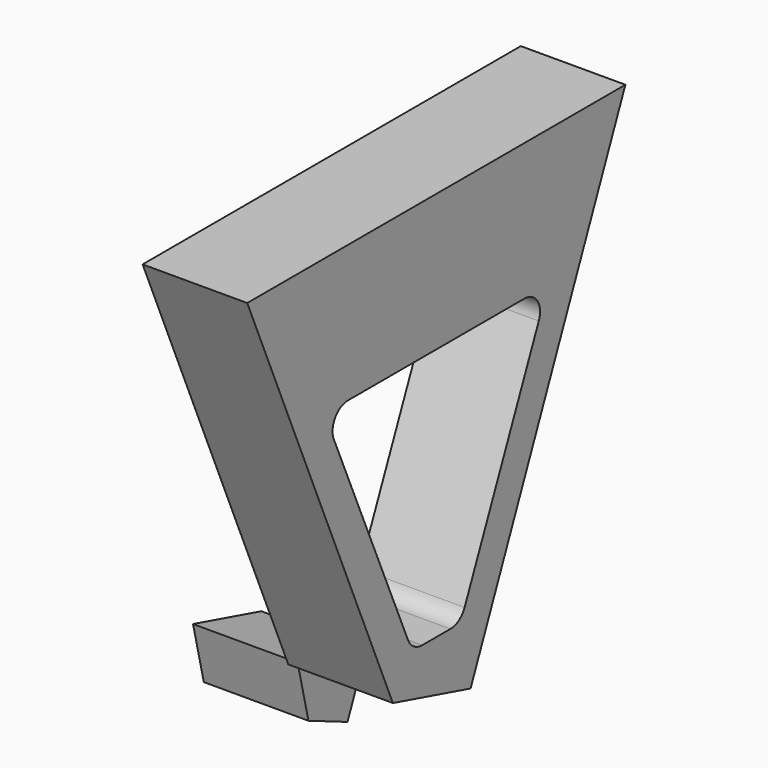
from build123d import *

# Parameters (mm, degrees)
F1_DEPTH = 27
F3_DEPTH = 30
F4_R     = 5
F6_DEPTH = 27


with BuildPart() as f1:
    # F0 (on Right) → F1 (new body)
    with BuildSketch(Plane.YZ):
        Polygon((0, -65.738282), (0, 44.261718), (-61, 44.261718), (-14, -65.738282), align=None)
        Polygon((61, 44.261718), (0, 44.261718), (0, -65.738282), (14, -65.738282), align=None)
        Polygon((14, -65.738282), (0, -65.738282), (0, -69.581399), (11.060639, -72.617638), align=None)
        Polygon((0, -69.581399), (0, -65.738282), (-14, -65.738282), align=None)
    extrude(amount=F1_DEPTH)

    # F2 (on face) → F3 (cut)
    with BuildSketch(Plane.YZ.offset(27)):
        Polygon((36.07466, 8.916986), (-36.07466, 8.916986), (-7.820144, -56.434208), (7.820817, -56.432634), align=None)
    extrude(amount=-F3_DEPTH, mode=Mode.SUBTRACT)

    # F4
    f4_edges = [f1.edges().sort_by_distance(p)[0] for p in [
        (13.5, -36.07466, 8.916986),
        (13.5, 36.07466, 8.916986),
        (13.5, -7.820144, -56.434208),
        (13.5, 7.820817, -56.432634),
    ]]
    fillet(f4_edges, radius=F4_R)


with BuildPart() as f6:
    # F5 (on face) → F6 (new body)
    with BuildSketch(Plane(origin=(0, 0, 0), x_dir=(0, -1, 0), z_dir=(-1, 0, 0))):
        Polygon((10.984566, -66.566044), (-11.060639, -72.617638), (-5.10103, -86.565657), (7.501293, -81.181028), align=None)
    extrude(amount=F6_DEPTH)


solid = Compound([f1.part, f6.part])
